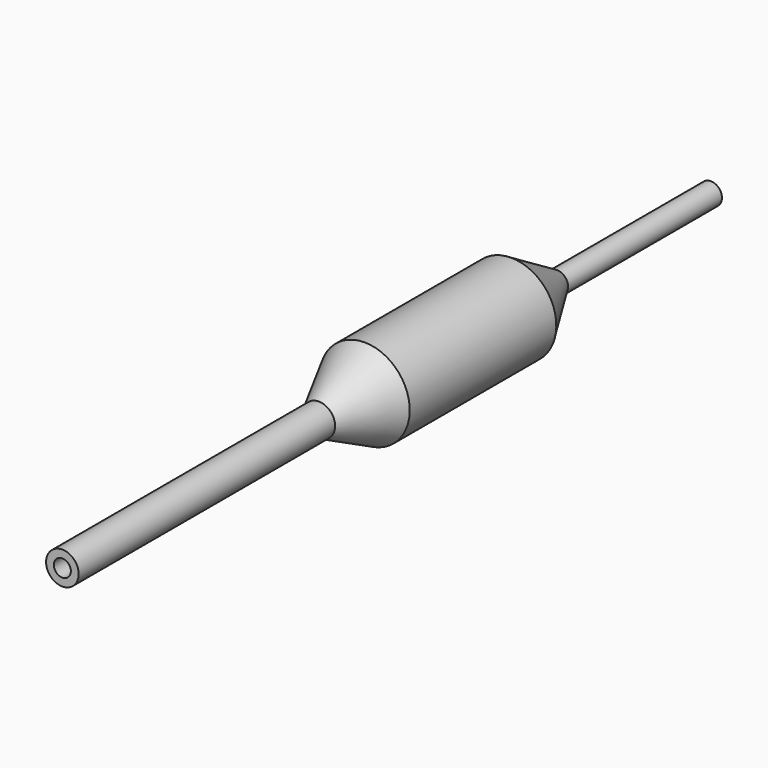
from build123d import *

# Parameters (mm, degrees)
F2_R     = 0.9271
F3_DEPTH = 12.7
F4_R     = 0.9271
F5_DEPTH = 12.7


with BuildPart() as f1:
    # F0 (on Right) → F1 (revolve)
    with BuildSketch(Plane.YZ):
        Polygon((0, 1.778), (0, 0), (88.5, 0), (88.5, 1.2065), (67.5, 1.2065), (61.25, 4.9238), (41.25, 4.9238), (35, 1.778), align=None)
    revolve(axis=Axis((0, 44.25, 0), (0, 1, 0)))

    # F2 (on face) → F3 (cut)
    with BuildSketch(Plane(origin=(0, 88.5, 0), x_dir=(-1, 0, 0), z_dir=(0, 1, 0))):
        Circle(F2_R)
    extrude(amount=-F3_DEPTH, mode=Mode.SUBTRACT)

    # F4 (on face) → F5 (cut)
    with BuildSketch(Plane.XZ):
        Circle(F4_R)
    extrude(amount=-F5_DEPTH, mode=Mode.SUBTRACT)


solid = f1.part
